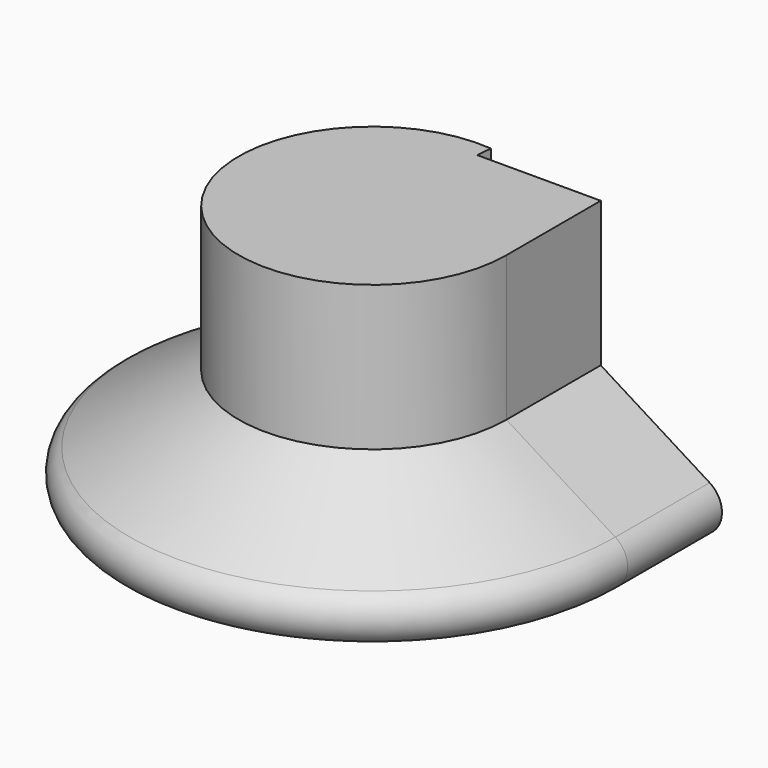
from build123d import *

# Parameters (mm, degrees)
F1_DEPTH = 71.12
F2_DEPTH = 87.376
F3_ANGLE = 275


with BuildPart() as f1:
    # F0 (on Front) → F1 (new body)
    with BuildSketch(Plane.XZ):
        with BuildLine():
            Line((-129.7797858715, 33.2981981337), (-129.7797858715, -36.6309396923))
            Line((-129.7797858715, -36.6309396923), (10.8276167884, -36.6309396923))
            ThreePointArc((10.8276167884, -36.6309396923), (23.7625826148, -24.1752902471), (16.6507605463, -7.686550729))
            Line((16.6507605463, -7.686550729), (-49.0343049169, 33.2981981337))
            Line((-49.0343049169, 33.2981981337), (-129.7797858715, 33.2981981337))
        make_face()
    extrude(amount=F1_DEPTH)

    # F2 (add): a face of the model
    f2_faces = [f1.faces().sort_by_distance(p)[0] for p in [
        (-89.4070453942, -35.56, 33.2981981337),
    ]]
    extrude(f2_faces, amount=F2_DEPTH)

    # F2_face (on face) → F3 (revolve)
    with BuildSketch(Plane(origin=(-74.6235346517, -71.12, 30.893227171), x_dir=(1, 0, 0), z_dir=(0, -1, 0))):
        with BuildLine():
            Line((91.274295198, -38.5797779), (25.5892297349, 2.4049709627))
            Line((25.5892297349, 2.4049709627), (25.5892297349, 89.7809709627))
            Line((25.5892297349, 89.7809709627), (-55.1562512198, 89.7809709627))
            Line((-55.1562512198, 89.7809709627), (-55.1562512198, -67.5241668633))
            Line((-55.1562512198, -67.5241668633), (85.4511514402, -67.5241668633))
            ThreePointArc((85.4511514402, -67.5241668633), (98.3861172665, -55.0685174181), (91.274295198, -38.5797779))
        make_face()
    revolve(axis=Axis((-129.7797858715, -71.12, 42.0216292207), (0, 0, -1)), revolution_arc=F3_ANGLE)


solid = f1.part
